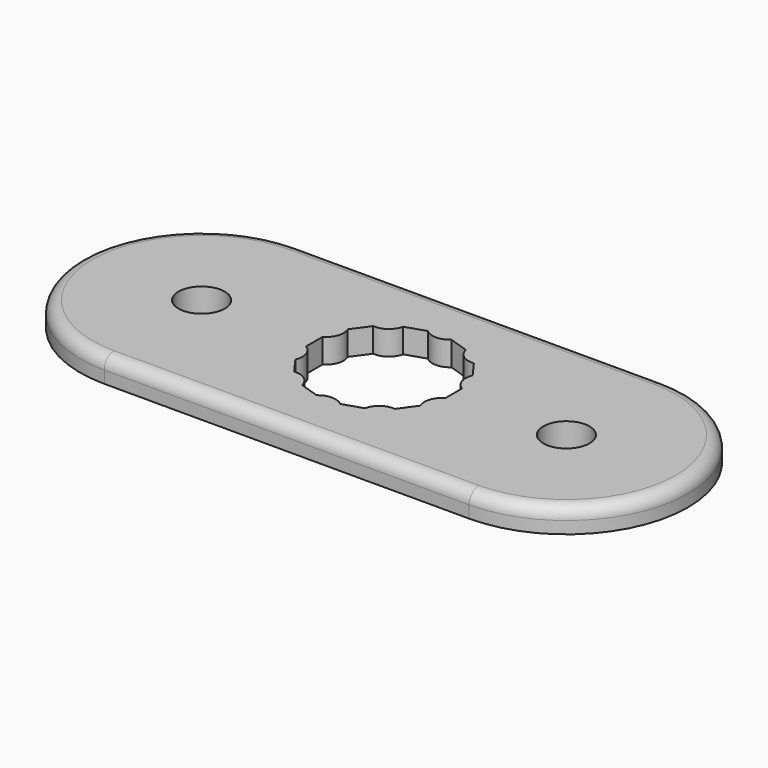
from build123d import *

# Parameters (mm, degrees)
SKETCH_R  = 1.9
PAD_DEPTH = 2
FILLET_R  = 1


with BuildPart() as part:
    # Sketch → Pad (new body)
    with BuildSketch(Plane.XY):
        with BuildLine():
            Line((-15.000027, 10), (15.000027, 10))
            ThreePointArc((15.000027, -10), (25, 0), (15.000027, 10))
            Line((15.000027, -10), (-15.000027, -10))
            ThreePointArc((-15.000027, 10), (-25, 0), (-15.000027, -10))
        make_face()
        with Locations((-15, 0)):
            Circle(SKETCH_R, mode=Mode.SUBTRACT)
        with Locations((15, 0)):
            Circle(SKETCH_R, mode=Mode.SUBTRACT)
        with BuildLine():
            ThreePointArc((-0.966331, 5.718934), (0, 5.35), (0.966331, 5.718934))
            Line((0.966331, 5.718934), (2.579727, 5.19471))
            ThreePointArc((2.579727, 5.19471), (3.144651, 4.328241), (4.143283, 4.058719))
            Line((4.143283, 4.058719), (5.140417, 2.686283))
            ThreePointArc((5.140417, 2.686283), (5.088152, 1.653241), (5.737642, 0.848212))
            Line((5.737642, 0.848212), (5.737642, -0.848212))
            ThreePointArc((5.737642, -0.848212), (5.088152, -1.653241), (5.140417, -2.686283))
            Line((4.143283, -4.058719), (5.140417, -2.686283))
            ThreePointArc((4.143283, -4.058719), (3.144651, -4.328241), (2.579727, -5.19471))
            Line((0.966331, -5.718934), (2.579727, -5.19471))
            ThreePointArc((0.966331, -5.718934), (0, -5.35), (-0.966331, -5.718934))
            Line((-2.579727, -5.19471), (-0.966331, -5.718934))
            ThreePointArc((-2.579727, -5.19471), (-3.144651, -4.328241), (-4.143283, -4.058719))
            Line((-5.140417, -2.686283), (-4.143283, -4.058719))
            ThreePointArc((-5.140417, -2.686283), (-5.088152, -1.653241), (-5.737642, -0.848212))
            Line((-5.737642, 0.848212), (-5.737642, -0.848212))
            ThreePointArc((-5.737642, 0.848212), (-5.088152, 1.653241), (-5.140417, 2.686283))
            Line((-5.140417, 2.686283), (-4.143283, 4.058719))
            ThreePointArc((-4.143283, 4.058719), (-3.144651, 4.328241), (-2.579727, 5.19471))
            Line((-2.579727, 5.19471), (-0.966331, 5.718934))
        make_face(mode=Mode.SUBTRACT)
    extrude(amount=PAD_DEPTH)

    # Fillet
    fillet_edges = [part.edges().sort_by_distance(p)[0] for p in [
        (0, -10, 2),
        (-25, 0, 2),
        (0, 10, 2),
        (25, 0, 2),
    ]]
    fillet(fillet_edges, radius=FILLET_R)


solid = part.part
